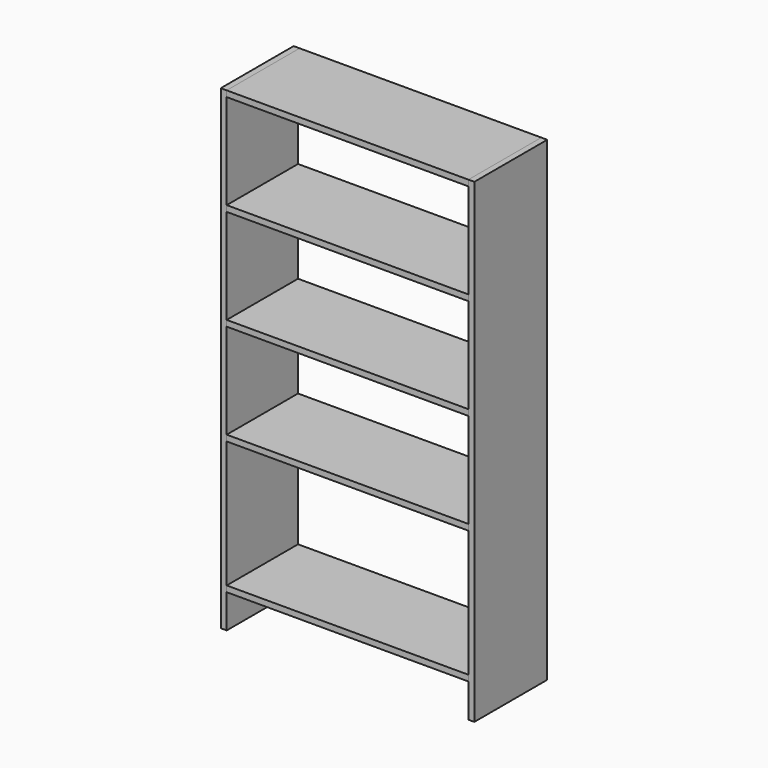
from build123d import *

# Parameters (mm, degrees)
F1_DEPTH = 292.1
F2_W     = 19.05
F2_H     = 1524
F3_DEPTH = 292.1
F4_W     = 787.4
F4_H     = 317.5
F4_W_2   = 774.7
F4_H_2   = 304.8
F4_H_3   = 419.1
F4_H_4   = 406.4
F5_DEPTH = 6.35


with BuildPart() as f1:
    # F0 (on Front) → F1 (new body)
    with BuildSketch(Plane.XZ):
        Polygon((387.35, 742.95), (387.35, 762), (-387.35, 762), (-387.35, 742.95), (0, 742.95), align=None)
        Polygon((387.35, 419.1), (387.35, 438.15), (0, 438.15), (-387.35, 438.15), (-387.35, 419.1), (0, 419.1), align=None)
        Polygon((0, 95.25), (387.35, 95.25), (387.35, 114.3), (0, 114.3), (-387.35, 114.3), (-387.35, 95.25), align=None)
        Polygon((0, -228.6), (387.35, -228.6), (387.35, -209.55), (0, -209.55), (-387.35, -209.55), (-387.35, -228.6), align=None)
        Polygon((-387.35, -654.05), (387.35, -654.05), (387.35, -635), (0, -635), (-387.35, -635), align=None)
    extrude(amount=F1_DEPTH)


with BuildPart() as f3:
    # F2 (on Front) → F3 (new body)
    with BuildSketch(Plane.XZ):
        with Locations((-396.875, 0)):
            Rectangle(F2_W, F2_H)
        with Locations((396.875, 0)):
            Rectangle(F2_W, F2_H)
    extrude(amount=F3_DEPTH)


with BuildPart() as f5_tool:
    # F4 (on face) → F5 (new body)
    with BuildSketch(Plane(origin=(0, 0, 0), x_dir=(-1, 0, 0), z_dir=(0, 1, 0))):
        with Locations((0, 590.55)):
            Rectangle(F4_W, F4_H)
        with Locations((0, 590.55)):
            Rectangle(F4_W_2, F4_H_2, mode=Mode.SUBTRACT)
        with Locations((0, 266.7)):
            Rectangle(F4_W, F4_H)
        with Locations((0, 266.7)):
            Rectangle(F4_W_2, F4_H_2, mode=Mode.SUBTRACT)
        with Locations((0, -57.15)):
            Rectangle(F4_W, F4_H)
        with Locations((0, -57.15)):
            Rectangle(F4_W_2, F4_H_2, mode=Mode.SUBTRACT)
        with Locations((0, -431.8)):
            Rectangle(F4_W, F4_H_3)
        with Locations((0, -431.8)):
            Rectangle(F4_W_2, F4_H_4, mode=Mode.SUBTRACT)
    extrude(amount=-F5_DEPTH)


with BuildPart() as f1_1:
    add(f1.part)

    # F5: cut by f5_tool
    add(f5_tool.part, mode=Mode.SUBTRACT)


with BuildPart() as f3_1:
    add(f3.part)

    # F5: cut by f5_tool
    add(f5_tool.part, mode=Mode.SUBTRACT)


solid = Compound([f1_1.part, f3_1.part])
